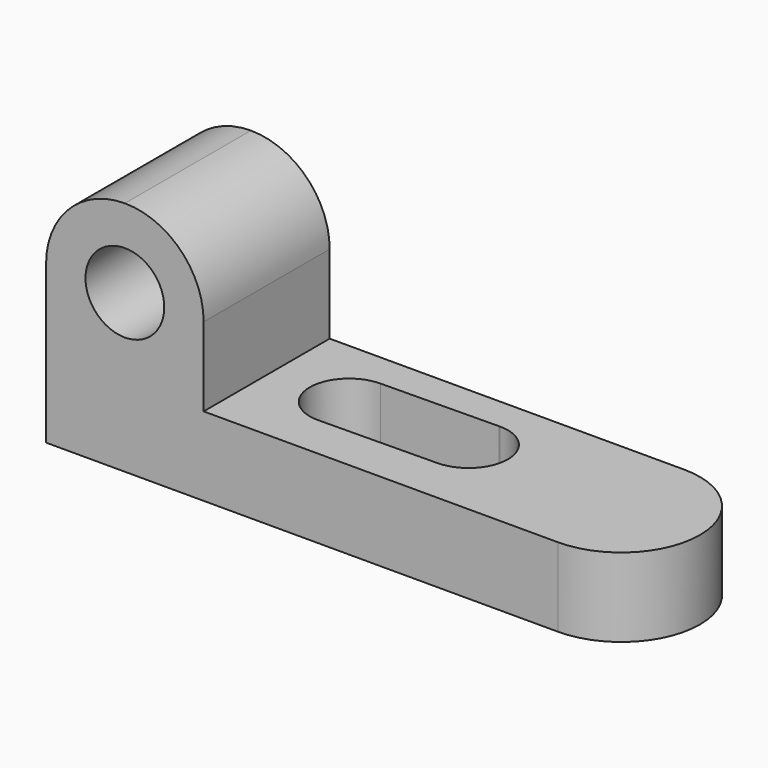
from build123d import *

# Parameters (mm, degrees)
F0_W     = 69.85
F0_H     = 38.1
F1_DEPTH = 25.4
F3_DEPTH = 25.4
F5_DEPTH = 12.7
F7_DEPTH = 25.4
F8_R     = 6.35
F9_DEPTH = 25.4


with BuildPart() as f1:
    # F0 (on Front) → F1 (new body)
    with BuildSketch(Plane.XZ):
        with Locations((34.925, 19.05)):
            Rectangle(F0_W, F0_H)
    extrude(amount=F1_DEPTH)

    # F2 (on face) → F3 (cut)
    with BuildSketch(Plane.XZ.offset(25.4)):
        with BuildLine():
            Line((0, 38.1), (0, 25.4))
            ThreePointArc((0, 25.4), (3.7197438789, 34.3802561211), (12.7, 38.1))
            Line((12.7, 38.1), (0, 38.1))
        make_face()
        with BuildLine():
            Line((69.85, 38.1), (12.7, 38.1))
            ThreePointArc((12.7, 38.1), (21.6802561211, 34.3802561211), (25.4, 25.4))
            Line((25.4, 25.4), (25.4, 12.7))
            Line((25.4, 12.7), (69.85, 12.7))
            Line((69.85, 12.7), (69.85, 38.1))
        make_face()
    extrude(amount=-F3_DEPTH, mode=Mode.SUBTRACT)

    # F4 (on face) → F5 (join)
    with BuildSketch(Plane.XY.offset(12.7)):
        with BuildLine():
            Line((69.85, -25.4), (82.55, -25.4))
            ThreePointArc((82.55, -25.4), (95.25, -12.7), (82.55, 0))
            Line((82.55, 0), (69.85, 0))
            Line((69.85, 0), (69.85, -25.4))
        make_face()
    extrude(amount=-F5_DEPTH)

    # F6 (on face) → F7 (cut)
    with BuildSketch(Plane.XY.offset(12.7)):
        with BuildLine():
            ThreePointArc((38.0759369288, -5.5685763133), (42.5660649893, -7.4284482528), (44.4259369288, -11.9185763133))
            ThreePointArc((44.4259369288, -11.9185763133), (42.5946024122, -16.3799844149), (38.1569094488, -18.2680600287))
            Line((38.1569094488, -18.2680600287), (57.1243946492, -18.0261748455))
            ThreePointArc((57.1243946492, -18.0261748455), (50.7749087424, -11.7569753348), (56.9628067538, -5.328231135))
            Line((56.9628067538, -5.328231135), (38.0759369288, -5.5685763133))
        make_face()
        with BuildLine():
            Line((57.1243946492, -5.3261748455), (56.9628067538, -5.328231135))
            ThreePointArc((56.9628067538, -5.328231135), (50.7749087424, -11.7569753348), (57.1243946492, -18.0261748455))
            ThreePointArc((57.1243946492, -18.0261748455), (61.6145227098, -16.1663029061), (63.4743946492, -11.6761748455))
            ThreePointArc((63.4743946492, -11.6761748455), (61.6145227098, -7.186046785), (57.1243946492, -5.3261748455))
        make_face()
        with BuildLine():
            ThreePointArc((38.1569094488, -18.2680600287), (42.5946024122, -16.3799844149), (44.4259369288, -11.9185763133))
            ThreePointArc((44.4259369288, -11.9185763133), (42.5660649893, -7.4284482528), (38.0759369288, -5.5685763133))
            ThreePointArc((38.0759369288, -5.5685763133), (31.7260660012, -11.9590633963), (38.1569094488, -18.2680600287))
        make_face()
    extrude(amount=-F7_DEPTH, mode=Mode.SUBTRACT)

    # F8 (on face) → F9 (cut)
    with BuildSketch(Plane.XZ.offset(25.4)):
        with Locations((12.7, 25.4)):
            Circle(F8_R)
    extrude(amount=-F9_DEPTH, mode=Mode.SUBTRACT)


solid = f1.part
